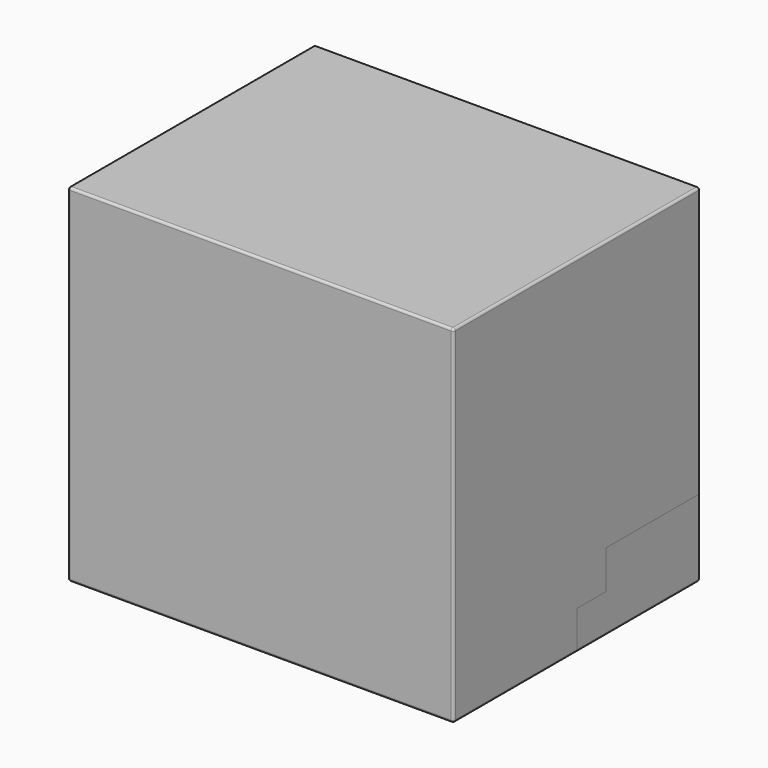
from build123d import *

# Parameters (mm, degrees)
F0_W      = 254
F0_H      = 228.6
F1_DEPTH  = 101.6
F2_W      = 76.2
F2_H      = 101.6
F3_DEPTH  = 25.4
F4_DEPTH  = 25.4
F5_R      = 1.524
F5_2_R    = 1.524
F5_3_R    = 1.524
F6_W      = 76.2
F6_H      = 25.4
F7_DEPTH  = 25.4
F8_DEPTH  = 25.4
F9_W      = 76.2
F9_H      = 25.4
F10_DEPTH = 25.4
F11_DEPTH = 25.4


with BuildPart() as f1:
    # F0 (on Front) → F1 (new body, symmetric)
    with BuildSketch(Plane.XZ):
        Rectangle(F0_W, F0_H)
    extrude(amount=F1_DEPTH, both=True)

    # F2 (on face) → F3 (cut)
    with BuildSketch(Plane(origin=(0, 0, -114.3), x_dir=(1, 0, 0), z_dir=(0, 0, -1))):
        with Locations((88.9, -50.8)):
            Rectangle(F2_W, F2_H)
        with Locations((-88.9, -50.8)):
            Rectangle(F2_W, F2_H)
    extrude(amount=-F3_DEPTH, mode=Mode.SUBTRACT)


with BuildPart() as f4:
    # F4 (new): a face of the model
    f4_faces = [f1.part.faces().sort_by_distance(p)[0] for p in [
        (88.9, 50.8, -88.9),
    ]]
    extrude(f4_faces, amount=F4_DEPTH)

    # F5#2
    f5_2_edges = [f4.edges().sort_by_distance(p)[0] for p in [
        (127, 101.6, -101.6),
        (88.9, 101.6, -114.3),
        (127, 50.8, -114.3),
    ]]
    fillet(f5_2_edges, radius=F5_2_R)



with BuildPart() as f4b:
    # F4#2 (new): a face of the model
    f4_2_faces = [f1.part.faces().sort_by_distance(p)[0] for p in [
        (-88.9, 50.8, -88.9),
    ]]
    extrude(f4_2_faces, amount=F4_DEPTH)

    # F5#3
    f5_3_edges = [f4b.edges().sort_by_distance(p)[0] for p in [
        (-127, 101.6, -101.6),
        (-127, 50.8, -114.3),
        (-88.9, 101.6, -114.3),
    ]]
    fillet(f5_3_edges, radius=F5_3_R)



with BuildPart() as f1_1:
    add(f1.part)

    # F5
    f5_edges = [f1_1.edges().sort_by_distance(p)[0] for p in [
        (127, -101.6, 0),
        (0, -101.6, 114.3),
        (-127, -101.6, 0),
        (0, -101.6, -114.3),
        (127, 0, 114.3),
        (0, 101.6, 114.3),
        (-127, 0, 114.3),
        (127, 101.6, 12.7),
        (-127, 101.6, 12.7),
        (-127, -50.8, -114.3),
        (0, 101.6, -114.3),
        (127, -50.8, -114.3),
    ]]
    fillet(f5_edges, radius=F5_R)

    # F6 (on face) → F7 (cut)
    with BuildSketch(Plane.YZ.offset(127)):
        with Locations((61.976, -76.2)):
            Rectangle(F6_W, F6_H)
    extrude(amount=-F7_DEPTH, mode=Mode.SUBTRACT)


with BuildPart() as f4_1:
    add(f4.part)
    # F8 (add): a face of the model
    f8_faces = [f1_1.part.faces().sort_by_distance(p)[0] for p in [
        (101.6, 61.976, -76.2),
    ]]
    extrude(f8_faces, amount=F8_DEPTH)


with BuildPart() as f1_2:
    add(f1_1.part)

    # F9 (on face) → F10 (cut)
    with BuildSketch(Plane(origin=(-127, 0, 0), x_dir=(0, -1, 0), z_dir=(-1, 0, 0))):
        with Locations((-61.976, -76.2)):
            Rectangle(F9_W, F9_H)
    extrude(amount=-F10_DEPTH, mode=Mode.SUBTRACT)


with BuildPart() as f4b_1:
    add(f4b.part)
    # F11 (add): a face of the model
    f11_faces = [f1_2.part.faces().sort_by_distance(p)[0] for p in [
        (-101.6, 61.976, -76.2),
    ]]
    extrude(f11_faces, amount=F11_DEPTH)


solid = Compound([f4_1.part, f1_2.part, f4b_1.part])
